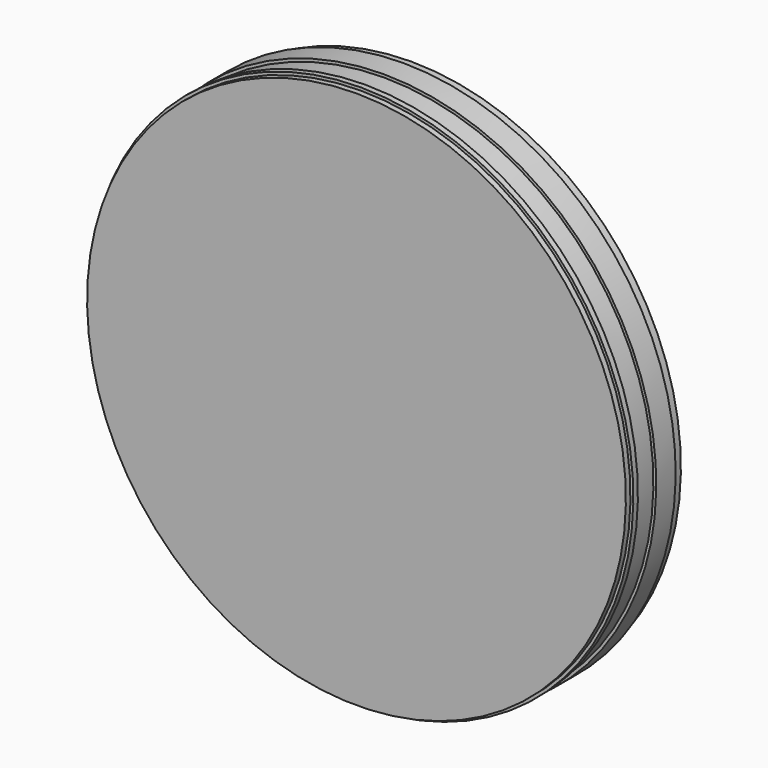
from build123d import *

# Parameters (mm, degrees)
F0_R     = 152.4
F1_DEPTH = 38.1
F4_R     = 12.7
F5_DEPTH = 12.7


with BuildPart() as f1:
    # F0 (on Front) → F1 (new body)
    with BuildSketch(Plane.XZ):
        Circle(F0_R)
    extrude(amount=F1_DEPTH)

    # F2 (on Right) → F3 (revolve, cut)
    with BuildSketch(Plane.YZ):
        Polygon((-38.1, 152.908), (-38.1, 149.225), (-34.925, 149.225), (-34.925, 150.8125), (-31.75, 150.8125), (-31.75, 149.225), (-19.05, 149.225), (-19.05, 150.8125), (-5.591471, 150.8125), (-5.591471, 149.225), (0, 149.225), (0, 152.908), align=None)
    revolve(axis=Axis((0, -26.635785, 0), (0, -1, 0)), mode=Mode.SUBTRACT)

    # F4 (on face) → F5 (cut)
    with BuildSketch(Plane.XZ):
        Circle(F4_R)
    extrude(amount=F5_DEPTH, mode=Mode.SUBTRACT)


solid = f1.part
